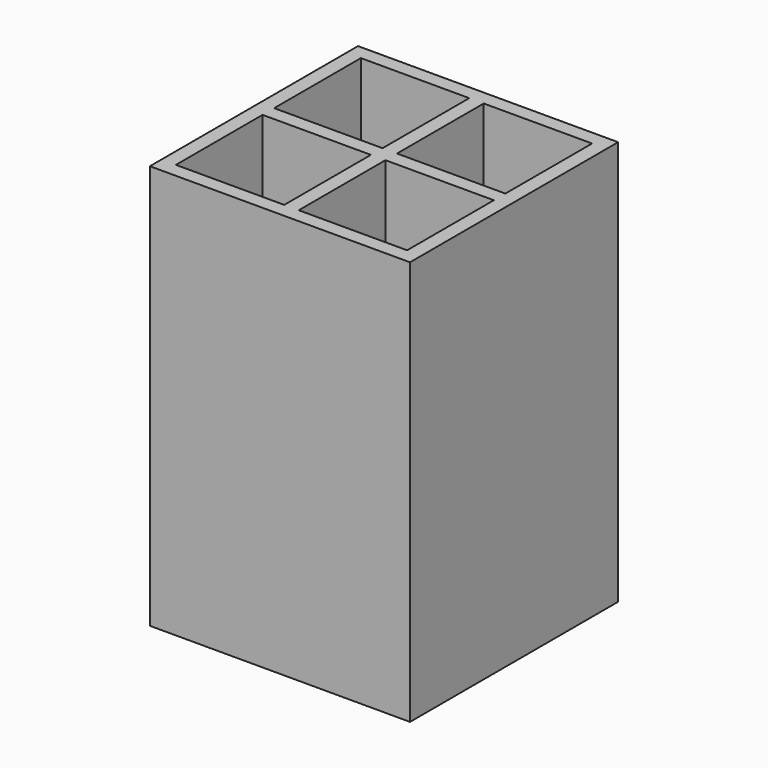
from build123d import *

# Parameters (mm, degrees)
F0_W      = 57.15
F0_H      = 88.9
F1_DEPTH  = 57.15
F3_W      = 23.7998
F3_H      = 23.7998
F4_DEPTH  = 85.725
F5_W      = 23.8125
F5_H      = 23.8125
F6_DEPTH  = 85.725
F7_W      = 23.8125
F7_H      = 23.8125
F8_DEPTH  = 85.725
F9_W      = 23.8125
F9_H      = 23.8125
F10_DEPTH = 85.725


with BuildPart() as f1:
    # F0 (on Front) → F1 (new body)
    with BuildSketch(Plane.XZ):
        with Locations((-11.029301, 21.903095)):
            Rectangle(F0_W, F0_H)
    extrude(amount=F1_DEPTH)

    # F3 (on face) → F4 (cut)
    with BuildSketch(Plane.XY.offset(66.353095)):
        with Locations((-24.529401, -42.0751)):
            Rectangle(F3_W, F3_H)
    extrude(amount=-F4_DEPTH, mode=Mode.SUBTRACT)

    # F5 (on face) → F6 (cut)
    with BuildSketch(Plane.XY.offset(66.353095)):
        with Locations((2.464449, -42.06875)):
            Rectangle(F5_W, F5_H)
    extrude(amount=-F6_DEPTH, mode=Mode.SUBTRACT)

    # F7 (on face) → F8 (cut)
    with BuildSketch(Plane.XY.offset(66.353095)):
        with Locations((-24.523051, -15.08125)):
            Rectangle(F7_W, F7_H)
    extrude(amount=-F8_DEPTH, mode=Mode.SUBTRACT)

    # F9 (on face) → F10 (cut)
    with BuildSketch(Plane.XY.offset(66.353095)):
        with Locations((2.464449, -15.08125)):
            Rectangle(F9_W, F9_H)
    extrude(amount=-F10_DEPTH, mode=Mode.SUBTRACT)


solid = f1.part
